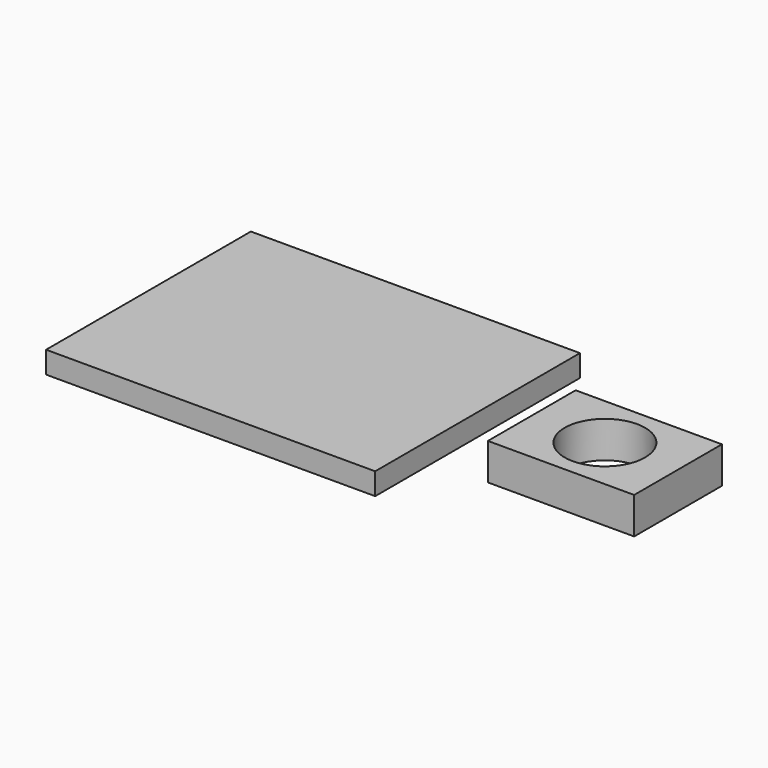
from build123d import *

# Parameters (mm, degrees)
F0_W     = 180
F0_H     = 140
F1_DEPTH = 12
F2_W     = 80
F2_H     = 60
F2_R     = 22
F3_DEPTH = 20


with BuildPart() as f1:
    # F0 (on Top) → F1 (new body)
    with BuildSketch(Plane.XY):
        Rectangle(F0_W, F0_H)
    extrude(amount=F1_DEPTH)


with BuildPart() as f3:
    # F2 (on Top) → F3 (new body)
    with BuildSketch(Plane.XY):
        with Locations((159.647301, 0)):
            Rectangle(F2_W, F2_H)
        with Locations((159.647301, 0)):
            Circle(F2_R, mode=Mode.SUBTRACT)
    extrude(amount=F3_DEPTH)


solid = Compound([f1.part, f3.part])
